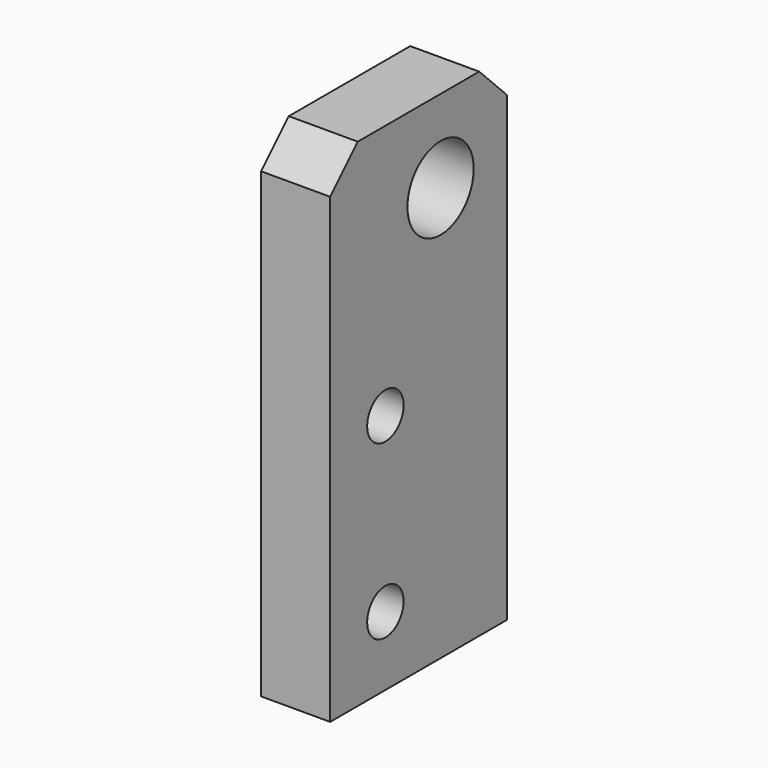
from build123d import *

# Parameters (mm, degrees)
F0_W     = 32
F0_H     = 72
F1_DEPTH = 10
F3_D     = 6.6
F5_D     = 12
F6_SIZE  = 5


with BuildPart() as f1:
    # F0 (on Right) → F1 (new body)
    with BuildSketch(Plane.YZ):
        with Locations((16, 36)):
            Rectangle(F0_W, F0_H)
    extrude(amount=F1_DEPTH)

    # F3 (through all)
    with Locations(Plane.YZ.offset(10)):
        with Locations((10, 35), (10, 10)):
            Hole(F3_D / 2)

    # F5 (through all)
    with Locations(Plane.YZ.offset(10)):
        with Locations((20, 60)):
            Hole(F5_D / 2)

    # F6
    f6_edges = [f1.edges().sort_by_distance(p)[0] for p in [
        (5, 0, 72),
        (5, 32, 72),
    ]]
    chamfer(f6_edges, length=F6_SIZE)


solid = f1.part
